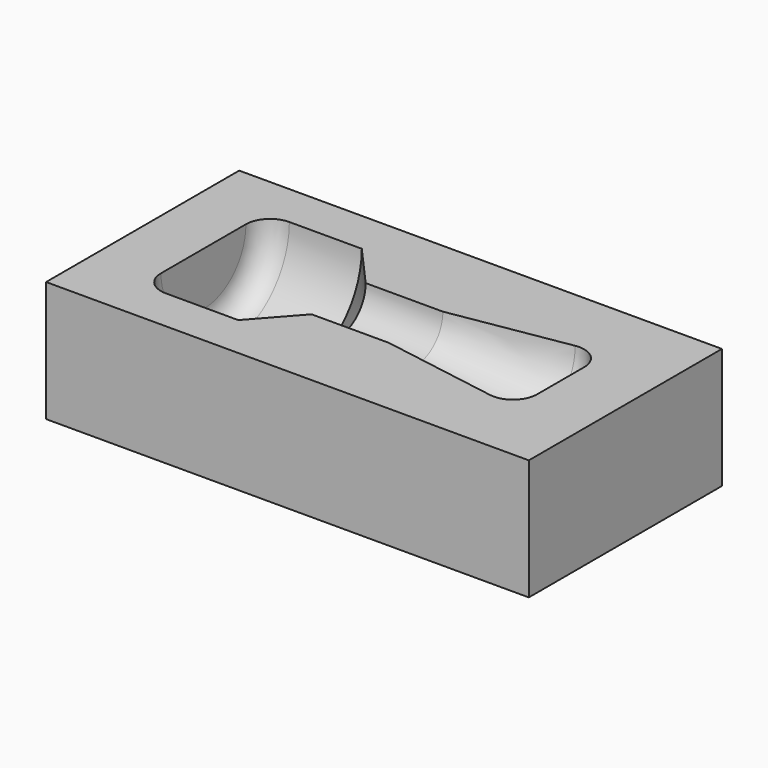
from build123d import *

# Parameters (mm, degrees)
F0_W     = 100
F0_H     = 50
F1_DEPTH = 25


with BuildPart() as f1:
    # F0 (on Top) → F1 (new body)
    with BuildSketch(Plane.XY):
        Rectangle(F0_W, F0_H)
    extrude(amount=F1_DEPTH)

    # F2 (on face) → F3 (revolve, cut)
    with BuildSketch(Plane.XY.offset(25)):
        with BuildLine():
            Line((-17.400011, 16), (-32.400011, 16))
            ThreePointArc((-32.400011, 16), (-35.935545, 14.535534), (-37.400011, 11))
            Line((-37.400011, 11), (-37.400011, 0))
            Line((-37.400011, 0), (36.599989, 0))
            Line((36.599989, 0), (36.599989, 6.097698))
            ThreePointArc((36.599989, 6.097698), (34.831864, 9.912798), (30.777994, 11.029668))
            Line((30.777994, 11.029668), (6.599989, 7))
            Line((6.599989, 7), (-9.400011, 7))
            Line((-9.400011, 7), (-17.400011, 16))
        make_face()
    revolve(axis=Axis((1.115499, 0, 25), (1, 0, 0)), mode=Mode.SUBTRACT)


solid = f1.part
